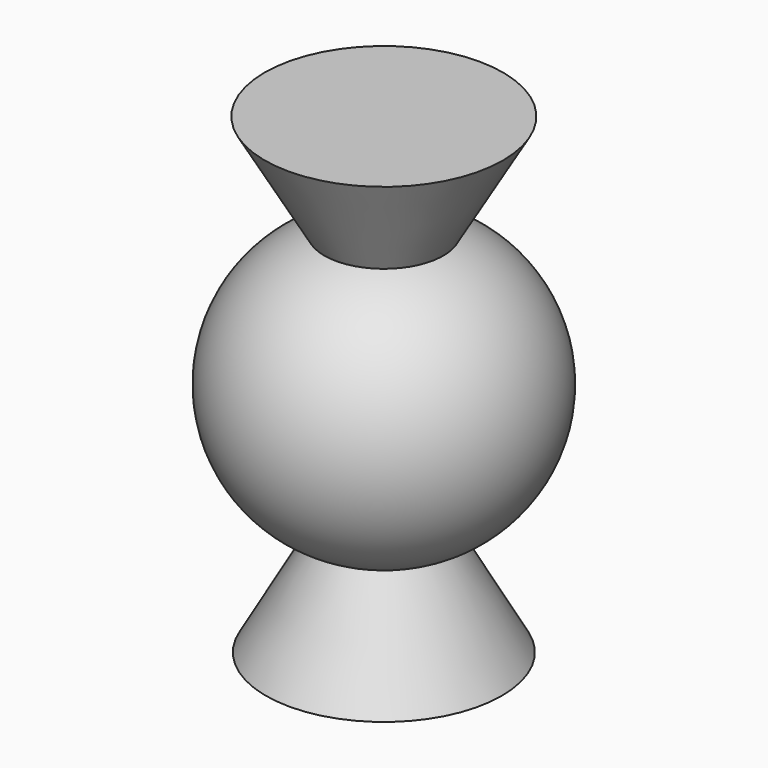
from build123d import *


with BuildPart() as f1:
    # F0 (on Front) → F1 (revolve)
    with BuildSketch(Plane.XZ):
        with BuildLine():
            Line((0, -18.009152), (0, 21.475118))
            Line((0, 21.475118), (-10, 21.475118))
            Line((-10, 21.475118), (-5, 12.814864))
            ThreePointArc((-5, 12.814864), (-12.542713, 1.705231), (-5, -9.404403))
            Line((-5, -9.404403), (-9.902611, -18.120159))
            Line((-9.902611, -18.120159), (0, -18.009152))
        make_face()
    revolve(axis=Axis((0, 0, 1.475118), (0, 0, -1)))


solid = f1.part
